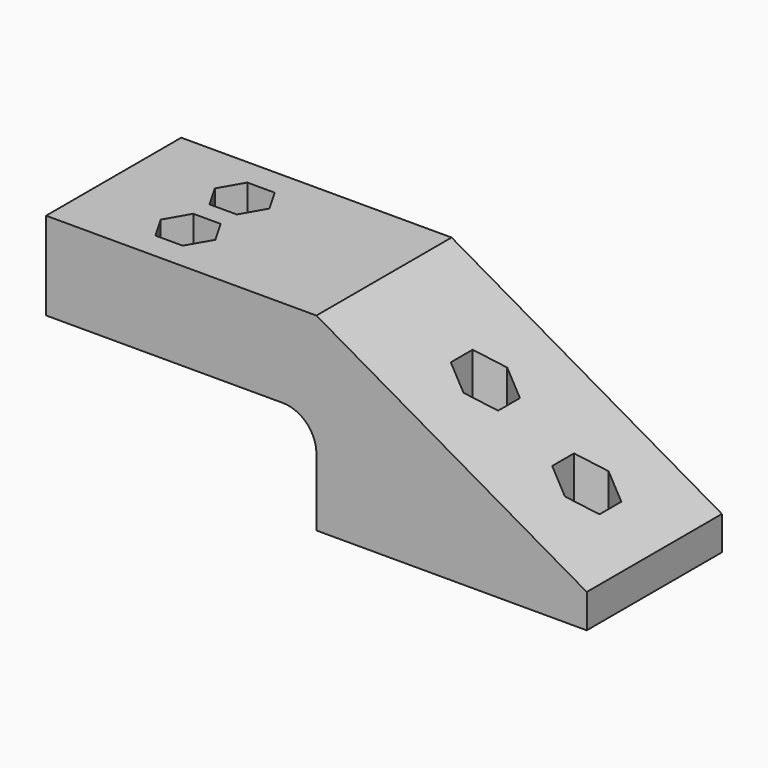
from build123d import *

# Parameters (mm, degrees)
F1_DEPTH      = 25
F2_R          = 2
F3_DEPTH      = 25
F3_DEPTH_BACK = 25
F4_START      = 5
F4_DEPTH      = 20
F6_START      = 20
F5_R          = 2
F6_DEPTH      = 20
F7_DEPTH      = 40
F8_R          = 5


with BuildPart() as f1:
    # F0 (on Front) → F1 (new body)
    with BuildSketch(Plane.XZ):
        Polygon((0, 15), (0, 0), (40, 0), (40, 5), (0, 28), (-40, 28), (-40, 15), align=None)
    extrude(amount=-F1_DEPTH)

    # F2 (on Top) → F3 (cut, two sides)
    with BuildSketch(Plane.XY) as f3_sk:
        with Locations((30, 12.5)):
            Circle(F2_R)
        with Locations((15, 12.5)):
            Circle(F2_R)
    extrude(amount=F3_DEPTH, mode=Mode.SUBTRACT)
    extrude(f3_sk.sketch, amount=-F3_DEPTH_BACK, mode=Mode.SUBTRACT)

    # F2 (on Top) → F4 (cut)
    with BuildSketch(Plane.XY.offset(F4_START)):
        Polygon((11.5, 14.5207259422), (11.5, 10.4792740578), (15, 8.4585481157), (18.5, 10.4792740578), (18.5, 14.5207259422), (15, 16.5414518843), align=None)
        with Locations((15, 12.5)):
            Circle(F2_R, mode=Mode.SUBTRACT)
        Polygon((26.5, 14.5207259422), (26.5, 10.4792740578), (30, 8.4585481157), (33.5, 10.4792740578), (33.5, 14.5207259422), (30, 16.5414518843), align=None)
        with Locations((30, 12.5)):
            Circle(F2_R, mode=Mode.SUBTRACT)
    extrude(amount=F4_DEPTH, mode=Mode.SUBTRACT)

    # F5 (on Top) → F6 (cut)
    with BuildSketch(Plane.XY.offset(F6_START)):
        Polygon((-22.9792740578, 21), (-27.0207259422, 21), (-29.0414518843, 17.5), (-27.0207259422, 14), (-22.9792740578, 14), (-20.9585481157, 17.5), align=None)
        with Locations((-25, 17.5)):
            Circle(F5_R, mode=Mode.SUBTRACT)
        Polygon((-22.9792740578, 11), (-27.0207259422, 11), (-29.0414518843, 7.5), (-27.0207259422, 4), (-22.9792740578, 4), (-20.9585481157, 7.5), align=None)
        with Locations((-25, 7.5)):
            Circle(F5_R, mode=Mode.SUBTRACT)
    extrude(amount=F6_DEPTH, mode=Mode.SUBTRACT)

    # F5 (on Top) → F7 (cut)
    with BuildSketch(Plane.XY):
        with Locations((-25, 7.5)):
            Circle(F5_R)
        with Locations((-25, 17.5)):
            Circle(F5_R)
    extrude(amount=F7_DEPTH, mode=Mode.SUBTRACT)

    # F8
    f8_edges = [f1.edges().sort_by_distance(p)[0] for p in [
        (0, 12.5, 15),
    ]]
    fillet(f8_edges, radius=F8_R)


solid = f1.part
